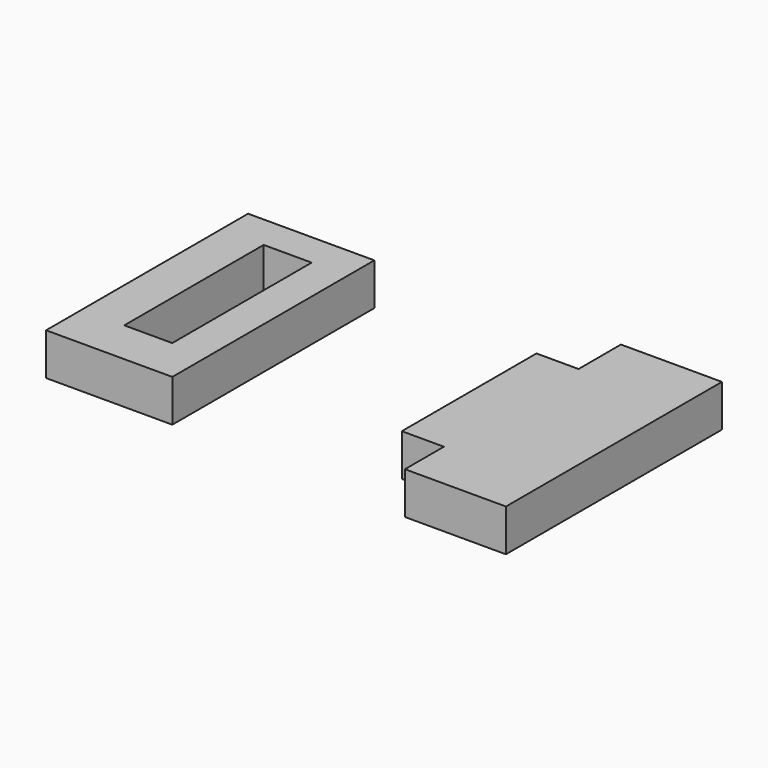
from build123d import *

# Parameters (mm, degrees)
F0_W     = 15
F0_H     = 30
F0_W_2   = 5.7
F0_H_2   = 20.7
F1_DEPTH = 5


with BuildPart() as f1:
    # F0 (on Top) → F1 (new body)
    with BuildSketch(Plane.XY):
        with Locations((-17.5, 10.213055)):
            Rectangle(F0_W, F0_H)
        with Locations((-17.103914, 10.868473)):
            Rectangle(F0_W_2, F0_H_2, mode=Mode.SUBTRACT)
        Polygon((13.433937, 0), (18.433937, 0), (18.433937, -5.784987), (30.433937, -5.784987), (30.433937, 26.292099), (18.433937, 26.292099), (18.433937, 20), (13.433937, 20), align=None)
    extrude(amount=F1_DEPTH)


solid = f1.part
